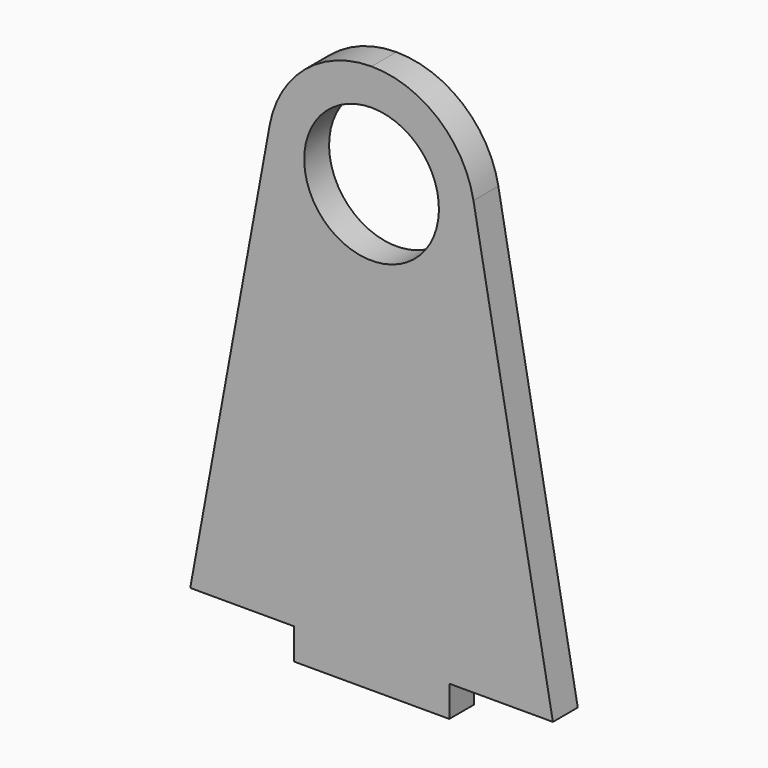
from build123d import *

# Parameters (mm, degrees)
F1_DEPTH = 3


with BuildPart() as f1:
    # F0 (on Front) → F1 (new body)
    with BuildSketch(Plane.XZ):
        with BuildLine():
            ThreePointArc((0, 50), (-6.401844, 47.682213), (-9.836066, 41.803279))
            Line((-9.836066, 41.803279), (-17.5, 0))
            Line((-17.5, 0), (-7.5, 0))
            Line((-7.5, 0), (-7.5, -3))
            Line((-7.5, -3), (0, -3))
            Line((0, -3), (7.5, -3))
            Line((7.5, -3), (7.5, 0))
            Line((7.5, 0), (17.5, 0))
            Line((17.5, 0), (9.836066, 41.803279))
            ThreePointArc((9.836066, 41.803279), (6.401844, 47.682213), (0, 50))
        make_face()
        with BuildLine():
            ThreePointArc((0, 33.5), (-6.5, 40), (0, 46.5))
            ThreePointArc((0, 46.5), (6.5, 40), (0, 33.5))
        make_face(mode=Mode.SUBTRACT)
    extrude(amount=F1_DEPTH)


solid = f1.part
